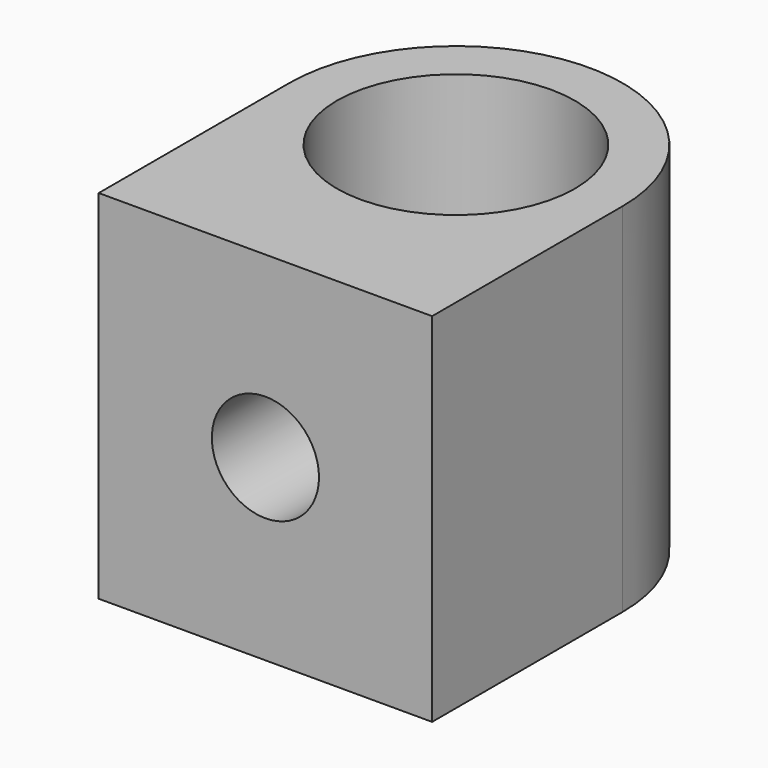
from build123d import *

# Parameters (mm, degrees)
F0_R     = 5
F1_DEPTH = 15
F2_R     = 2.25
F3_DEPTH = 5.5358573251


with BuildPart() as f1:
    # F0 (on Top) → F1 (new body)
    with BuildSketch(Plane.XY):
        with BuildLine():
            ThreePointArc((7, 10), (0, 17), (-7, 10))
            ThreePointArc((-7, 10), (0, 3), (7, 10))
        make_face()
        with Locations((0, 10)):
            Circle(F0_R, mode=Mode.SUBTRACT)
        with BuildLine():
            Line((-7, 10), (-7, 0))
            Line((-7, 0), (7, 0))
            Line((7, 0), (7, 10))
            ThreePointArc((7, 10), (0, 3), (-7, 10))
        make_face()
    extrude(amount=F1_DEPTH)

    # F2 (on face) → F3 (cut, through all)
    with BuildSketch(Plane.XZ):
        with Locations((0, 7.5)):
            Circle(F2_R)
    extrude(amount=-F3_DEPTH, mode=Mode.SUBTRACT)


solid = f1.part
